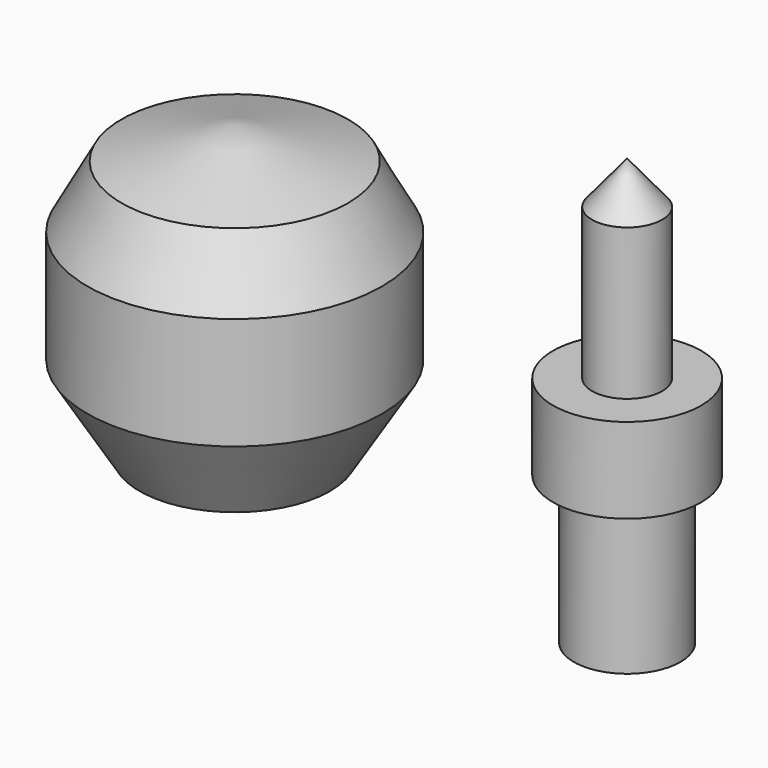
from build123d import *


with BuildPart() as f1:
    # F0 (on Front) → F1 (revolve)
    with BuildSketch(Plane.XZ):
        Polygon((39.902111, 44.922103), (0, 56.092316), (0, -27.285345), (11.178706, -46.434284), (33.519132, -46.434284), (51.8702, -16.514069), (51.8702, 22.980614), align=None)
    revolve(axis=Axis((0, 0, 14.403486), (0, 0, 1)))


with BuildPart() as f2:
    # F0 (on Front) → F2 (revolve)
    with BuildSketch(Plane.XZ):
        Polygon((150.48616, 75.729848), (138.119146, 90.729848), (138.119146, -59.270152), (156.869137, -59.270152), (156.869137, -7.385916), (164.217237, -7.385916), (164.217237, 22.614084), (150.48616, 22.614084), align=None)
    revolve(axis=Axis((138.119146, 0, 15.729848), (0, 0, 1)))


solid = Compound([f1.part, f2.part])
